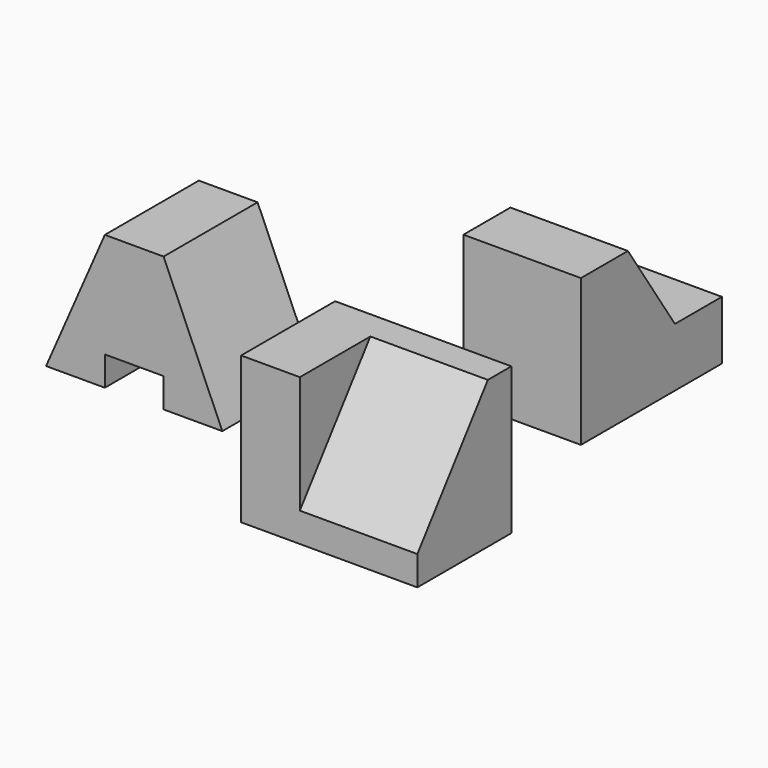
from build123d import *

# Parameters (mm, degrees)
F0_W     = 25.4
F0_H     = 31.75
F1_DEPTH = 38.1
F3_DEPTH = 25.4
F4_W     = 38.1
F4_H     = 31.75
F5_DEPTH = 25.4
F7_DEPTH = 25.4
F9_DEPTH = 25.4


with BuildPart() as f1:
    # F0 (on Right) → F1 (new body)
    with BuildSketch(Plane.YZ):
        with Locations((-38.886014, 17.307128)):
            Rectangle(F0_W, F0_H)
    extrude(amount=F1_DEPTH)

    # F2 (on face) → F3 (cut)
    with BuildSketch(Plane.YZ.offset(38.1)):
        Polygon((-51.586014, 7.782128), (-32.536014, 33.182128), (-51.586014, 33.182128), align=None)
    extrude(amount=-F3_DEPTH, mode=Mode.SUBTRACT)


with BuildPart() as f5:
    # F4 (on Right) → F5 (new body)
    with BuildSketch(Plane.YZ):
        with Locations((27.536635, 15.875)):
            Rectangle(F4_W, F4_H)
    extrude(amount=F5_DEPTH)

    # F6 (on face) → F7 (cut)
    with BuildSketch(Plane.YZ.offset(25.4)):
        Polygon((33.886635, 12.7), (46.586635, 12.7), (46.586635, 31.75), (21.186635, 31.75), align=None)
    extrude(amount=-F7_DEPTH, mode=Mode.SUBTRACT)


with BuildPart() as f9:
    # F8 (on Front) → F9 (new body)
    with BuildSketch(Plane.XZ):
        Polygon((-50.411218, 29.099356), (-63.111218, 0), (-50.411218, 0), (-50.411218, 6.35), (-37.711218, 6.35), (-37.711218, 0), (-25.011218, 0), (-37.711218, 29.099356), align=None)
    extrude(amount=F9_DEPTH)


solid = Compound([f1.part, f5.part, f9.part])
